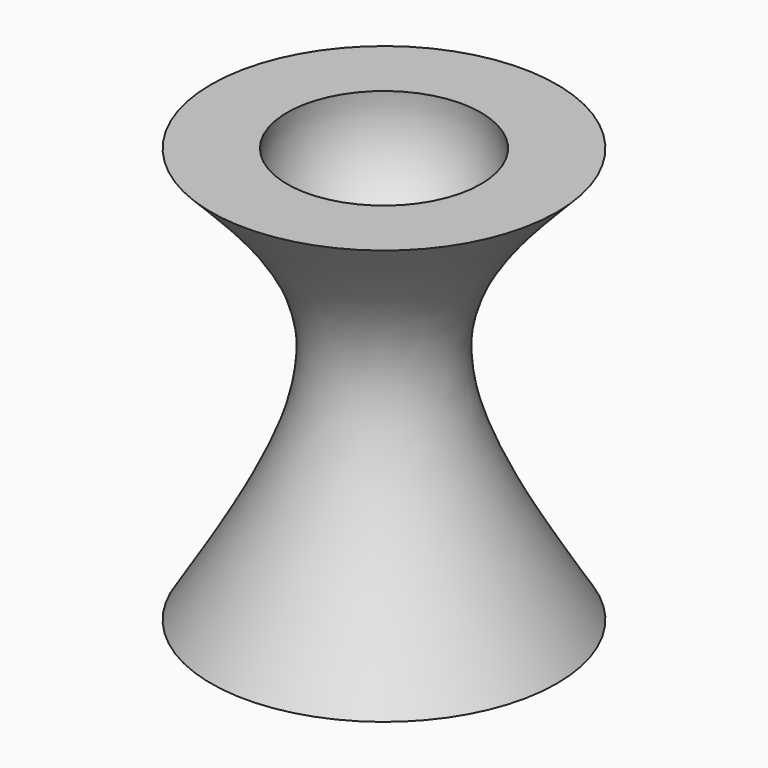
from build123d import *

# Parameters (mm, degrees)
F0_R     = 25.4
F1_DEPTH = 60.96


with BuildPart() as f1:
    # F0 (on Top) → F1 (new body)
    with BuildSketch(Plane.XY):
        Circle(F0_R)
    extrude(amount=F1_DEPTH)

    # F2 (on Front) → F3 (revolve, cut)
    with BuildSketch(Plane.XZ):
        with BuildLine():
            add(Edge.make_bspline(
                [(-25.4, 60.96), (-18.161229299, 53.5449746307), (-2.3189550459, 37.3169615682), (-17.2768036824, 13.1334177199), (-25.4, 0)],
                knots=[0, 0, 0, 0, 0.4569274957, 1, 1, 1, 1], degree=3))
            Line((-25.4, 60.96), (-25.4, 0))
        make_face()
    revolve(axis=Axis((0, 0, 24.8525852567), (0, 0, -1)), mode=Mode.SUBTRACT)

    # F4 (on Front) → F5 (revolve, cut)
    with BuildSketch(Plane.XZ):
        with BuildLine():
            Line((0, 72.4249499515), (0, 43.2784614488))
            ThreePointArc((0, 43.2784614488), (14.5732442514, 57.8517057002), (0, 72.4249499515))
        make_face()
    revolve(axis=Axis((0, 0, 57.8517057002), (0, 0, -1)), mode=Mode.SUBTRACT)


solid = f1.part
